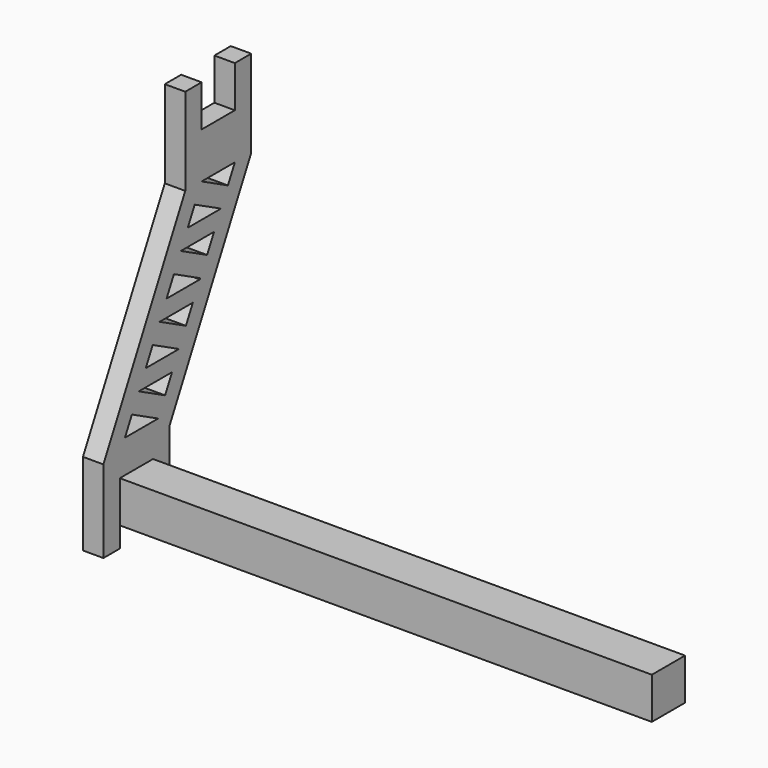
from build123d import *

# Parameters (mm, degrees)
F0_W     = 270
F0_H     = 20.3
F1_DEPTH = 20.3
F3_DEPTH = 10
F5_DEPTH = 25


with BuildPart() as f1:
    # F0 (on Front) → F1 (new body)
    with BuildSketch(Plane.XZ):
        with Locations((0, 10.15)):
            Rectangle(F0_W, F0_H)
    extrude(amount=F1_DEPTH)


with BuildPart() as f3:
    # F2 (on face) → F3 (new body)
    with BuildSketch(Plane(origin=(-135, 0, 0), x_dir=(0, -1, 0), z_dir=(-1, 0, 0))):
        Polygon((-10, -10), (0, -10), (0, 0), (0, 20.3), (20.3, 20.3), (20.3, 0), (20.3, -10), (30.3, -10), (30.3, 30.3), (-19.7, 127.6421670096), (-19.7, 170.3), (-29.7, 170.3), (-29.7, 150), (-50, 150), (-50, 170.3), (-60, 170.3), (-60, 127.6421670096), (-10, 30.3), align=None)
    extrude(amount=-F3_DEPTH)

    # F4 (on face) → F5 (cut)
    with BuildSketch(Plane(origin=(-135, 0, 0), x_dir=(0, -1, 0), z_dir=(-1, 0, 0))):
        Polygon((-45.7621802274, 119.3917958083), (-29.7, 127.6421670096), (-50, 127.6421670096), align=None)
        Polygon((-21.2243604547, 111.141424607), (-25.4621802274, 119.3917958083), (-41.5243604547, 111.141424607), align=None)
        Polygon((-33.0487209094, 94.6406822044), (-16.9865406821, 102.8910534057), (-37.2865406821, 102.8910534057), align=None)
        Polygon((-8.2763227241, 85.9336235825), (-12.7487209094, 94.6406822044), (-28.8109011368, 86.3903110031), (-28.5763227241, 85.9336235825), align=None)
        Polygon((-20.1006831788, 69.4328811799), (-4.0385029514, 77.6832523812), (-24.3385029514, 77.6832523812), align=None)
        Polygon((4.4371365938, 61.1825099786), (0.1993168212, 69.4328811799), (-15.8628634062, 61.1825099786), align=None)
        Polygon((-7.3872238609, 44.681767576), (8.6749563665, 52.9321387773), (-11.6250436335, 52.9321387773), align=None)
        Polygon((17.1505959118, 36.4313963747), (12.9127761391, 44.681767576), (-3.1494040882, 36.4313963747), align=None)
    extrude(amount=-F5_DEPTH, mode=Mode.SUBTRACT)


solid = Compound([f1.part, f3.part])
